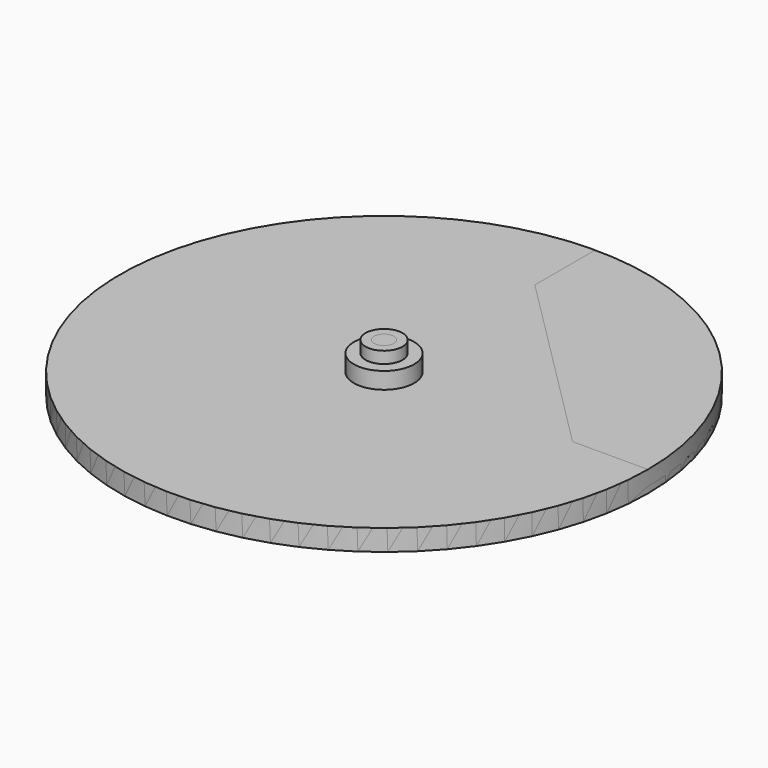
from build123d import *

# Parameters (mm, degrees)
SKETCH_R        = 70
PAD_DEPTH       = 5.6
SKETCH001_R     = 8
PAD001_DEPTH    = 4.4
SKETCH002_R     = 4.9
PAD002_DEPTH    = 3.1
POCKET_DEPTH    = 4
SKETCH005_R     = 4.9
PAD003_DEPTH    = 3.1
SKETCH006_R     = 2.6
POCKET001_DEPTH = 13.101


with BuildPart() as pad001:
    # Sketch → Pad (new body)
    with BuildSketch(Plane.XY):
        Circle(SKETCH_R)
    extrude(amount=PAD_DEPTH)

    # Sketch001 → Pad001 (new body)
    with BuildSketch(Plane.XY.offset(5.6)):
        Circle(SKETCH001_R)
    extrude(amount=PAD001_DEPTH)


with BuildPart() as pad002:
    # Pad002 base: copy of Pad001
    add(pad001.part)

    # Sketch002 → Pad002 (new body)
    with BuildSketch(Plane.XY.offset(10)):
        Circle(SKETCH002_R)
    extrude(amount=PAD002_DEPTH)


with BuildPart() as pocket001:
    # Pocket base: copy of Pad001
    add(pad001.part)

    # Sketch004 → Pocket (cut)
    with BuildSketch(Plane.XY.offset(5.6)):
        Polygon((0, 100), (0, 50), (50, 0), (100, 0), align=None)
    extrude(amount=-POCKET_DEPTH, mode=Mode.SUBTRACT)

    # Sketch005 → Pad003 (new body)
    with BuildSketch(Plane.XY.offset(10)):
        Circle(SKETCH005_R)
    extrude(amount=PAD003_DEPTH)

    # Sketch006 → Pocket001 (cut, through all)
    with BuildSketch(Plane.XY.offset(13.1)):
        Circle(SKETCH006_R)
    extrude(amount=-POCKET001_DEPTH, mode=Mode.SUBTRACT)


solid = Compound([pad002.part, pocket001.part])
